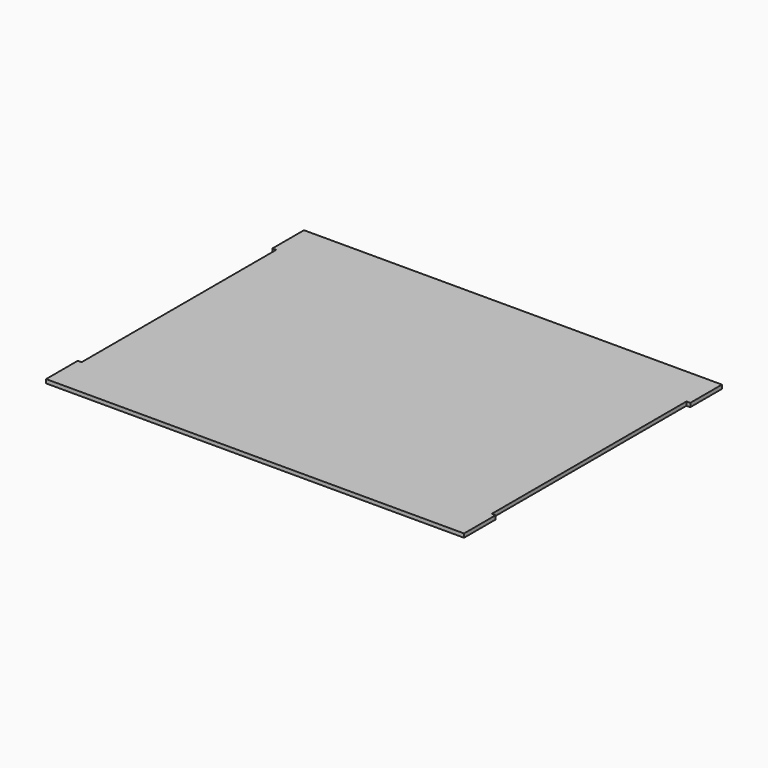
from build123d import *

# Parameters (mm, degrees)
F1_DEPTH = 4.45


with BuildPart() as f1:
    # F0 (on Top) → F1 (new body)
    with BuildSketch(Plane.XY):
        Polygon((-238, -187), (238, -187), (242.45, -187), (242.45, -141.10744), (238, -141.10744), (238, 141.10744), (242.45, 141.10744), (242.45, 187), (238, 187), (-238, 187), (-242.45, 187), (-242.45, 141.10744), (-238, 141.10744), (-238, -141.10744), (-242.45, -141.10744), (-242.45, -187), align=None)
        Polygon((-238, -187), (238, -187), (242.45, -187), (242.45, -141.10744), (238, -141.10744), (238, 141.10744), (242.45, 141.10744), (242.45, 187), (238, 187), (-238, 187), (-242.45, 187), (-242.45, 141.10744), (-238, 141.10744), (-238, -141.10744), (-242.45, -141.10744), (-242.45, -187), align=None)
    extrude(amount=F1_DEPTH)


solid = f1.part
